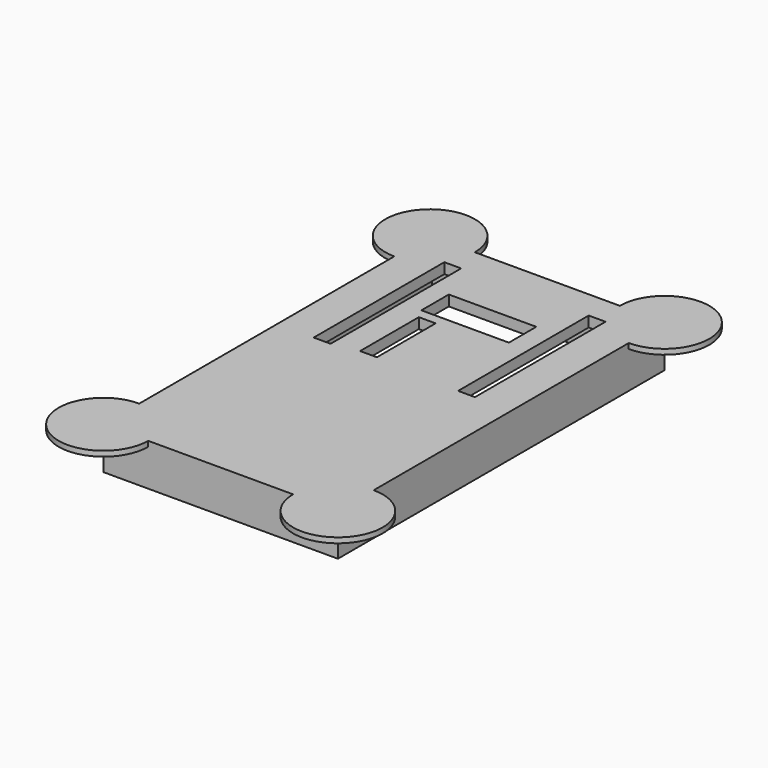
from build123d import *

# Parameters (mm, degrees)
F0_W     = 44.5
F0_H     = 77.5
F0_W_2   = 40.5
F0_H_2   = 73.5
F0_W_3   = 34.2
F0_H_3   = 33.5
F0_W_4   = 3.2
F0_H_4   = 30.9815835953
F0_W_5   = 3.1855669804
F0_H_5   = 13.9315482229
F0_W_6   = 16.6057739407
F0_H_6   = 6.5
F1_DEPTH = 2
F2_W     = 44.5
F2_H     = 77.5
F2_W_2   = 40.5
F2_H_2   = 73.5
F3_DEPTH = 6
F4_R     = 8.5
F5_DEPTH = 1


with BuildPart() as f1:
    # F0 (on Top) → F1 (new body)
    with BuildSketch(Plane.XY):
        Rectangle(F0_W, F0_H)
        Rectangle(F0_W_2, F0_H_2, mode=Mode.SUBTRACT)
        Rectangle(F0_W_2, F0_H_2)
        with Locations((0, 17.5)):
            Rectangle(F0_W_3, F0_H_3, mode=Mode.SUBTRACT)
        with Locations((0, 17.5)):
            Rectangle(F0_W_3, F0_H_3)
        with Locations((-13.7, 17.9407917976)):
            Rectangle(F0_W_4, F0_H_4, mode=Mode.SUBTRACT)
        with Locations((-5.6343034375, 10.3312116116)):
            Rectangle(F0_W_5, F0_H_5, mode=Mode.SUBTRACT)
        with Locations((0, 22.5)):
            Rectangle(F0_W_6, F0_H_6, mode=Mode.SUBTRACT)
        with Locations((13.7, 17.9407917976)):
            Rectangle(F0_W_4, F0_H_4, mode=Mode.SUBTRACT)
    extrude(amount=-F1_DEPTH)

    # F2 (on face) → F3 (join)
    with BuildSketch(Plane(origin=(0, 0, -2), x_dir=(1, 0, 0), z_dir=(0, 0, -1))):
        Rectangle(F2_W, F2_H)
        Rectangle(F2_W_2, F2_H_2, mode=Mode.SUBTRACT)
    extrude(amount=F3_DEPTH)

    # F4 (on face) → F5 (join)
    with BuildSketch(Plane.XY):
        with Locations((-22.25, 38.75)):
            Circle(F4_R)
        with Locations((22.25, 38.75)):
            Circle(F4_R)
        with Locations((22.25, -38.75)):
            Circle(F4_R)
        with Locations((-22.25, -38.75)):
            Circle(F4_R)
    extrude(amount=-F5_DEPTH)


solid = f1.part
